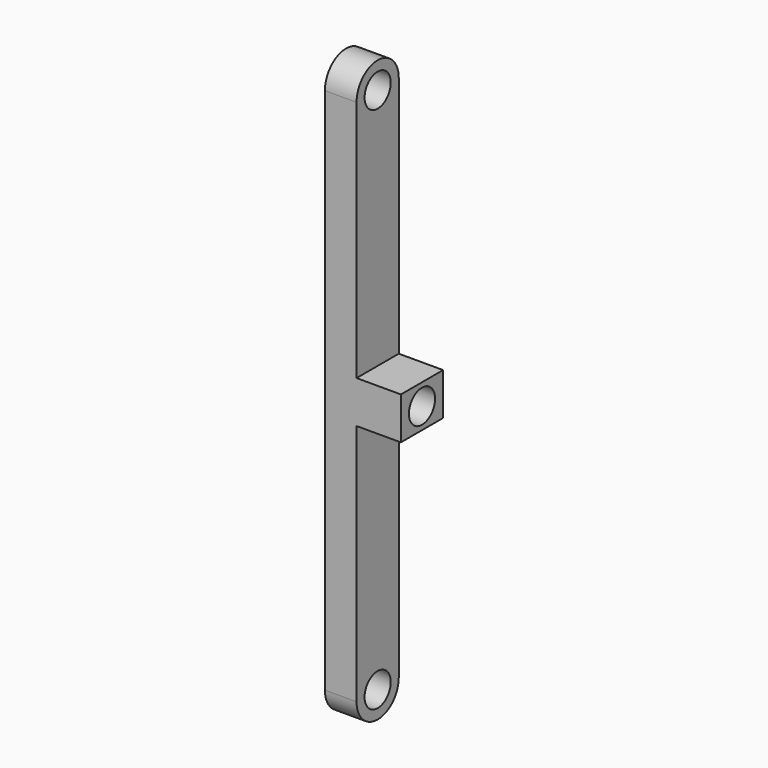
from build123d import *

# Parameters (mm, degrees)
F0_R     = 1.55
F0_W     = 5
F0_H     = 4
F1_DEPTH = 3
F2_DEPTH = 7.2


with BuildPart() as f1:
    # F0 (on Right) → F1 (new body)
    with BuildSketch(Plane.YZ):
        with BuildLine():
            Line((-2.5, 50), (-2.5, 27))
            Line((-2.5, 27), (2.5, 27))
            Line((2.5, 27), (2.5, 50))
            ThreePointArc((2.5, 50), (0, 52.5), (-2.5, 50))
        make_face()
        with Locations((0, 50)):
            Circle(F0_R, mode=Mode.SUBTRACT)
        with Locations((0, 25)):
            Rectangle(F0_W, F0_H)
        with Locations((0, 25)):
            Circle(F0_R, mode=Mode.SUBTRACT)
        with BuildLine():
            Line((-2.5, 23), (-2.5, 0))
            ThreePointArc((-2.5, 0), (0, -2.5), (2.5, 0))
            Line((2.5, 0), (2.5, 23))
            Line((2.5, 23), (-2.5, 23))
        make_face()
        Circle(F0_R, mode=Mode.SUBTRACT)
    extrude(amount=F1_DEPTH)

    # F0 (on Right) → F2 (join)
    with BuildSketch(Plane.YZ):
        with Locations((0, 25)):
            Rectangle(F0_W, F0_H)
        with Locations((0, 25)):
            Circle(F0_R, mode=Mode.SUBTRACT)
    extrude(amount=F2_DEPTH)


solid = f1.part
